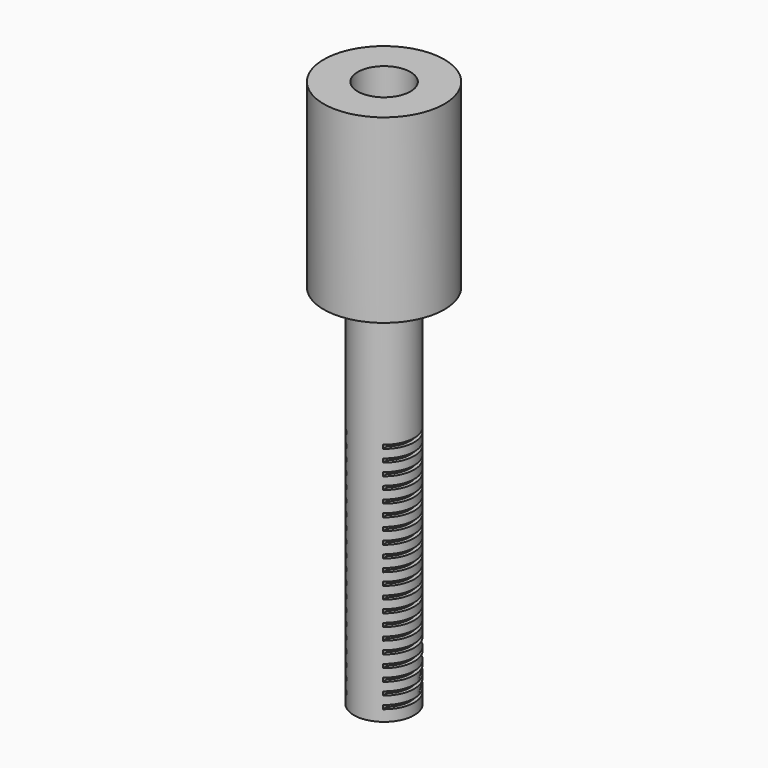
from build123d import *

# Parameters (mm, degrees)
F0_W          = 1.5875
F0_H          = 152.4
F2_W          = 12.303114232
F2_H          = 1.5875
F3_DEPTH      = 25.401
F3_DEPTH_BACK = 25.401


with BuildPart() as f1:
    # F0 (on Front) → F1 (revolve)
    with BuildSketch(Plane.XZ):
        Polygon((25.4, 228.6), (11.1125, 228.6), (11.1125, 152.4), (12.7, 152.4), (25.4, 152.4), align=None)
        Polygon((12.7, 0), (11.1125, 0), (1.4646953575, 0), (1.4646953575, -2.1468022168), (12.7, -2.1468022168), align=None)
        with Locations((11.90625, 76.2)):
            Rectangle(F0_W, F0_H)
    revolve(axis=Axis((0, 0, 76.2), (0, 0, -1)))

    # F2 (on Front) → F3 (cut, two sides)
    with BuildSketch(Plane.XZ) as f3_sk:
        with Locations((13.771557116, 3.33375)):
            Rectangle(F2_W, F2_H)
        with Locations((13.771557116, 8.41375)):
            Rectangle(F2_W, F2_H)
        with Locations((13.771557116, 13.49375)):
            Rectangle(F2_W, F2_H)
        with Locations((13.771557116, 18.57375)):
            Rectangle(F2_W, F2_H)
        with Locations((13.771557116, 23.65375)):
            Rectangle(F2_W, F2_H)
        with Locations((13.771557116, 28.73375)):
            Rectangle(F2_W, F2_H)
        with Locations((13.771557116, 33.81375)):
            Rectangle(F2_W, F2_H)
        with Locations((13.771557116, 38.89375)):
            Rectangle(F2_W, F2_H)
        with Locations((13.771557116, 43.97375)):
            Rectangle(F2_W, F2_H)
        with Locations((13.771557116, 49.05375)):
            Rectangle(F2_W, F2_H)
        with Locations((13.771557116, 54.13375)):
            Rectangle(F2_W, F2_H)
        with Locations((13.771557116, 59.21375)):
            Rectangle(F2_W, F2_H)
        with Locations((13.771557116, 64.29375)):
            Rectangle(F2_W, F2_H)
        with Locations((13.771557116, 69.37375)):
            Rectangle(F2_W, F2_H)
        with Locations((13.771557116, 74.45375)):
            Rectangle(F2_W, F2_H)
        with Locations((13.771557116, 79.53375)):
            Rectangle(F2_W, F2_H)
        with Locations((13.771557116, 84.61375)):
            Rectangle(F2_W, F2_H)
        with Locations((13.771557116, 89.69375)):
            Rectangle(F2_W, F2_H)
        with Locations((13.771557116, 94.77375)):
            Rectangle(F2_W, F2_H)
        with Locations((13.771557116, 99.85375)):
            Rectangle(F2_W, F2_H)
        with Locations((-13.771557116, 38.89375)):
            Rectangle(F2_W, F2_H)
        with Locations((-13.771557116, 49.05375)):
            Rectangle(F2_W, F2_H)
        with Locations((-13.771557116, 79.53375)):
            Rectangle(F2_W, F2_H)
        with Locations((-13.771557116, 28.73375)):
            Rectangle(F2_W, F2_H)
        with Locations((-13.771557116, 18.57375)):
            Rectangle(F2_W, F2_H)
        with Locations((-13.771557116, 3.33375)):
            Rectangle(F2_W, F2_H)
        with Locations((-13.771557116, 13.49375)):
            Rectangle(F2_W, F2_H)
        with Locations((-13.771557116, 94.77375)):
            Rectangle(F2_W, F2_H)
        with Locations((-13.771557116, 74.45375)):
            Rectangle(F2_W, F2_H)
        with Locations((-13.771557116, 54.13375)):
            Rectangle(F2_W, F2_H)
        with Locations((-13.771557116, 33.81375)):
            Rectangle(F2_W, F2_H)
        with Locations((-13.771557116, 99.85375)):
            Rectangle(F2_W, F2_H)
        with Locations((-13.771557116, 59.21375)):
            Rectangle(F2_W, F2_H)
        with Locations((-13.771557116, 89.69375)):
            Rectangle(F2_W, F2_H)
        with Locations((-13.771557116, 69.37375)):
            Rectangle(F2_W, F2_H)
        with Locations((-13.771557116, 8.41375)):
            Rectangle(F2_W, F2_H)
        with Locations((-13.771557116, 43.97375)):
            Rectangle(F2_W, F2_H)
        with Locations((-13.771557116, 23.65375)):
            Rectangle(F2_W, F2_H)
        with Locations((-13.771557116, 84.61375)):
            Rectangle(F2_W, F2_H)
        with Locations((-13.771557116, 64.29375)):
            Rectangle(F2_W, F2_H)
    extrude(amount=F3_DEPTH, mode=Mode.SUBTRACT)
    extrude(f3_sk.sketch, amount=-F3_DEPTH_BACK, mode=Mode.SUBTRACT)


solid = f1.part
